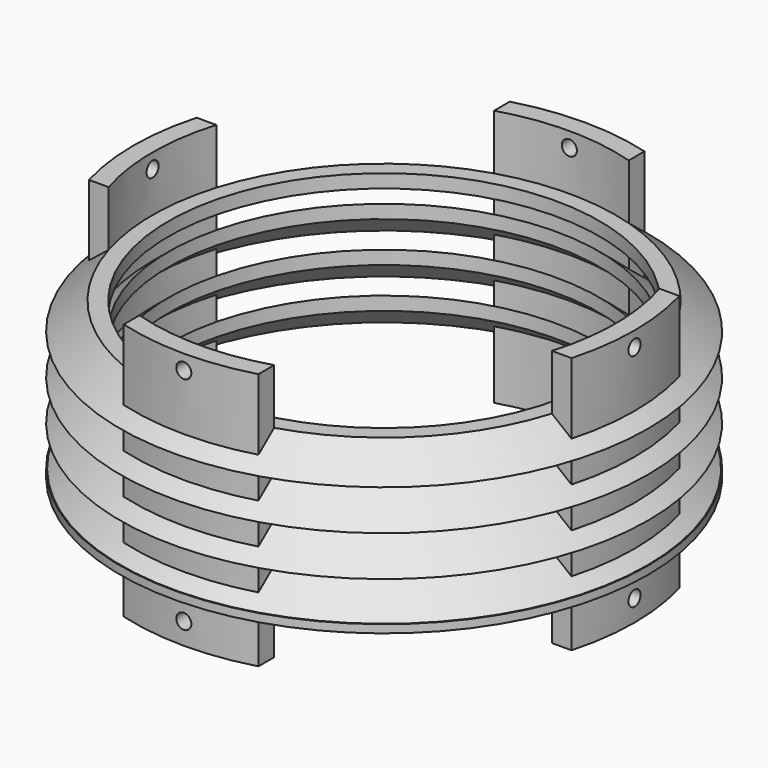
from build123d import *

# Parameters (mm, degrees)
CYLINDER126_R               = 2.8
CYLINDER126_DEPTH           = 300
CYLINDER126_ROLL_ANGLE      = 90
CYLINDER126_PLACEMENT_ANGLE = 45
CYLINDER125_R               = 2.8
CYLINDER125_DEPTH           = 300
CYLINDER125_ROLL_ANGLE      = 90
CYLINDER125_PLACEMENT_ANGLE = -45
CYLINDER123_R               = 2.8
CYLINDER123_DEPTH           = 300
CYLINDER124_R               = 2.8
CYLINDER124_DEPTH           = 300
CYLINDER112_R               = 2.8
CYLINDER112_DEPTH           = 300
CYLINDER113_R               = 2.8
CYLINDER113_DEPTH           = 300
CYLINDER120_R               = 80
CYLINDER120_DEPTH           = 100
EXTRUDE013_DEPTH            = 95.5
SKETCH014_R                 = 80
SKETCH013_R                 = 98
SKETCH012_R                 = 80
SKETCH011_R                 = 98
SKETCH018_R                 = 80
SKETCH017_R                 = 98
SKETCH016_R                 = 80
SKETCH015_R                 = 98
SKETCH022_R                 = 80
SKETCH021_R                 = 98
SKETCH020_R                 = 80
SKETCH019_R                 = 98
CYLINDER111_R               = 86
CYLINDER111_DEPTH           = 5
CYLINDER110_R               = 98
CYLINDER110_DEPTH           = 10
SKETCH026_R                 = 80
SKETCH025_R                 = 98
SKETCH024_R                 = 80
SKETCH023_R                 = 98
SKETCH053_R                 = 2.8
EXTRUDE035_DEPTH            = 20
CYLINDER155_R               = 2.13
CYLINDER155_DEPTH           = 300
CYLINDER156_R               = 2.13
CYLINDER156_DEPTH           = 300
TUBE010_R                   = 98
TUBE010_R_2                 = 94
TUBE010_DEPTH               = 65
SKETCH052_R                 = 98
SKETCH052_R_2               = 76
EXTRUDE034_DEPTH            = 5
FILLET007_R                 = 3
TUBE009_R                   = 98
TUBE009_R_2                 = 95
TUBE009_DEPTH               = 3


with BuildPart() as cylinder126:
    # Cylinder126 → Cylinder126 (new body)
    with BuildSketch(Plane.XY):
        Circle(CYLINDER126_R)
    extrude(amount=CYLINDER126_DEPTH)


with BuildPart() as cylinder126_1:
    # Cylinder126 roll: moved
    add(cylinder126.part.rotate(Axis((0, 0, 0), (1, 0, 0)), CYLINDER126_ROLL_ANGLE))


with BuildPart() as cylinder126_2:
    # Cylinder126 placement: moved
    add(cylinder126_1.part.moved(Location((-106.066017, -43.933983, 90))).rotate(Axis((-106.066017, -43.933983, 90), (0, 0, 1)), CYLINDER126_PLACEMENT_ANGLE))


with BuildPart() as m4cuts004:
    # Cylinder125 → Cylinder125 (new body)
    with BuildSketch(Plane.XY):
        Circle(CYLINDER125_R)
    extrude(amount=CYLINDER125_DEPTH)


with BuildPart() as m4cuts004_1:
    # Cylinder125 roll: moved
    add(m4cuts004.part.rotate(Axis((0, 0, 0), (1, 0, 0)), CYLINDER125_ROLL_ANGLE))


with BuildPart() as m4cuts004_2:
    # Cylinder125 placement: moved
    add(m4cuts004_1.part.moved(Location((106.066017, -43.933983, 90))).rotate(Axis((106.066017, -43.933983, 90), (0, 0, 1)), CYLINDER125_PLACEMENT_ANGLE))

    # Fusion072: union Cylinder126
    add(cylinder126_2.part)


with BuildPart() as m4cuts004_3:
    # Fusion072 placement: moved
    add(m4cuts004_2.part.moved(Location((0, 0, -82))))


with BuildPart() as cylinder123:
    # Cylinder123 → Cylinder123 (new body)
    with BuildSketch(Plane(origin=(0, 0, 90), x_dir=(1, 0, 0), z_dir=(0, -1, 0))):
        Circle(CYLINDER123_R)
    extrude(amount=CYLINDER123_DEPTH)


with BuildPart() as m4cuts005:
    # Cylinder124 → Cylinder124 (new body)
    with BuildSketch(Plane(origin=(-150, -150, 90), x_dir=(0, 1, 0), z_dir=(1, 0, 0))):
        Circle(CYLINDER124_R)
    extrude(amount=CYLINDER124_DEPTH)

    # Fusion071: union Cylinder123
    add(cylinder123.part)


with BuildPart() as m4cuts005_1:
    # Fusion071 placement: moved
    add(m4cuts005.part.moved(Location((0, 0, -82))))

    # Fusion073: union m4Cuts004
    add(m4cuts004_3.part)


with BuildPart() as cylinder112:
    # Cylinder112 → Cylinder112 (new body)
    with BuildSketch(Plane(origin=(0, 0, 90), x_dir=(1, 0, 0), z_dir=(0, -1, 0))):
        Circle(CYLINDER112_R)
    extrude(amount=CYLINDER112_DEPTH)


with BuildPart() as m4cuts001:
    # Cylinder113 → Cylinder113 (new body)
    with BuildSketch(Plane(origin=(-150, -150, 90), x_dir=(0, 1, 0), z_dir=(1, 0, 0))):
        Circle(CYLINDER113_R)
    extrude(amount=CYLINDER113_DEPTH)

    # Fusion062: union Cylinder112
    add(cylinder112.part)


with BuildPart() as obj1:
    # Cylinder120 → Cylinder120 (new body)
    with BuildSketch(Plane(origin=(0, -150, 0), x_dir=(1, 0, 0), z_dir=(0, 0, 1))):
        Circle(CYLINDER120_R)
    extrude(amount=CYLINDER120_DEPTH)

    # Fusion066: union m4Cuts001
    add(m4cuts001.part)


with BuildPart() as obj2:
    # Sketch031 → Extrude013 (new body)
    with BuildSketch(Plane.XY):
        with BuildLine():
            ThreePointArc((-89.576783, -125), (-93, -150), (-89.576783, -175))
            Line((-89.576783, -175), (-82.286086, -175))
            ThreePointArc((-82.286086, -125), (-86, -150), (-82.286086, -175))
            Line((-89.576783, -125), (-82.286086, -125))
        make_face()
        with BuildLine():
            ThreePointArc((25, -60.423217), (0, -57), (-25, -60.423217))
            Line((-25, -60.423217), (-25, -67.713914))
            ThreePointArc((25, -67.713914), (0, -64), (-25, -67.713914))
            Line((25, -60.423217), (25, -67.713914))
        make_face()
        with BuildLine():
            ThreePointArc((89.576783, -175), (93, -150), (89.576783, -125))
            Line((89.576783, -125), (82.286086, -125))
            ThreePointArc((82.286086, -175), (86, -150), (82.286086, -125))
            Line((89.576783, -175), (82.286086, -175))
        make_face()
        with BuildLine():
            ThreePointArc((-25, -239.576783), (0, -243), (25, -239.576783))
            Line((25, -239.576783), (25, -232.286086))
            ThreePointArc((-25, -232.286086), (0, -236), (25, -232.286086))
            Line((-25, -239.576783), (-25, -232.286086))
        make_face()
    extrude(amount=EXTRUDE013_DEPTH)


with BuildPart() as loft002:
    # Sketch014 → Loft002 section 0
    with BuildSketch(Plane.XY.offset(80)):
        with Locations((0, -150)):
            Circle(SKETCH014_R)
    # Sketch013 → Loft002 section 1
    with BuildSketch(Plane.XY.offset(65)):
        with Locations((0, -150)):
            Circle(SKETCH013_R)
    loft()


with BuildPart() as loft002_1:
    # Loft002 placement: moved
    add(loft002.part.moved(Location((0, 0, -20))))


with BuildPart() as loft003:
    # Sketch012 → Loft001 section 0
    with BuildSketch(Plane.XY.offset(80)):
        with Locations((0, -150)):
            Circle(SKETCH012_R)
    # Sketch011 → Loft001 section 1
    with BuildSketch(Plane.XY.offset(65)):
        with Locations((0, -150)):
            Circle(SKETCH011_R)
    loft()


with BuildPart() as loft003_1:
    # Loft001 placement: moved
    add(loft003.part.moved(Location((0, 0, -15))))

    # Cut022: cut Loft002
    add(loft002_1.part, mode=Mode.SUBTRACT)


with BuildPart() as loft006:
    # Sketch018 → Loft004 section 0
    with BuildSketch(Plane.XY.offset(80)):
        with Locations((0, -150)):
            Circle(SKETCH018_R)
    # Sketch017 → Loft004 section 1
    with BuildSketch(Plane.XY.offset(65)):
        with Locations((0, -150)):
            Circle(SKETCH017_R)
    loft()


with BuildPart() as loft006_1:
    # Loft004 placement: moved
    add(loft006.part.moved(Location((0, 0, -20))))


with BuildPart() as loft004:
    # Sketch016 → Loft003 section 0
    with BuildSketch(Plane.XY.offset(80)):
        with Locations((0, -150)):
            Circle(SKETCH016_R)
    # Sketch015 → Loft003 section 1
    with BuildSketch(Plane.XY.offset(65)):
        with Locations((0, -150)):
            Circle(SKETCH015_R)
    loft()


with BuildPart() as loft004_1:
    # Loft003 placement: moved
    add(loft004.part.moved(Location((0, 0, -15))))

    # Cut023: cut Loft006
    add(loft006_1.part, mode=Mode.SUBTRACT)


with BuildPart() as loft004_2:
    # Cut023 placement: moved
    add(loft004_1.part.moved(Location((0, 0, -15))))


with BuildPart() as loft009:
    # Sketch022 → Loft006 section 0
    with BuildSketch(Plane.XY.offset(80)):
        with Locations((0, -150)):
            Circle(SKETCH022_R)
    # Sketch021 → Loft006 section 1
    with BuildSketch(Plane.XY.offset(65)):
        with Locations((0, -150)):
            Circle(SKETCH021_R)
    loft()


with BuildPart() as loft009_1:
    # Loft006 placement: moved
    add(loft009.part.moved(Location((0, 0, -20))))


with BuildPart() as loft007:
    # Sketch020 → Loft005 section 0
    with BuildSketch(Plane.XY.offset(80)):
        with Locations((0, -150)):
            Circle(SKETCH020_R)
    # Sketch019 → Loft005 section 1
    with BuildSketch(Plane.XY.offset(65)):
        with Locations((0, -150)):
            Circle(SKETCH019_R)
    loft()


with BuildPart() as loft007_1:
    # Loft005 placement: moved
    add(loft007.part.moved(Location((0, 0, -15))))

    # Cut024: cut Loft009
    add(loft009_1.part, mode=Mode.SUBTRACT)


with BuildPart() as loft007_2:
    # Cut024 placement: moved
    add(loft007_1.part.moved(Location((0, 0, -30))))


with BuildPart() as cylinder111:
    # Cylinder111 → Cylinder111 (new body)
    with BuildSketch(Plane(origin=(0, -150, 70), x_dir=(1, 0, 0), z_dir=(0, 0, 1))):
        Circle(CYLINDER111_R)
    extrude(amount=CYLINDER111_DEPTH)


with BuildPart() as cylinder110:
    # Cylinder110 → Cylinder110 (new body)
    with BuildSketch(Plane(origin=(0, -150, 75), x_dir=(1, 0, 0), z_dir=(0, 0, 1))):
        Circle(CYLINDER110_R)
    extrude(amount=CYLINDER110_DEPTH)


with BuildPart() as loft012:
    # Sketch026 → Loft008 section 0
    with BuildSketch(Plane.XY.offset(80)):
        with Locations((0, -150)):
            Circle(SKETCH026_R)
    # Sketch025 → Loft008 section 1
    with BuildSketch(Plane.XY.offset(65)):
        with Locations((0, -150)):
            Circle(SKETCH025_R)
    loft()


with BuildPart() as loft012_1:
    # Loft008 placement: moved
    add(loft012.part.moved(Location((0, 0, -20))))


with BuildPart() as obj3:
    # Sketch024 → Loft007 section 0
    with BuildSketch(Plane.XY.offset(80)):
        with Locations((0, -150)):
            Circle(SKETCH024_R)
    # Sketch023 → Loft007 section 1
    with BuildSketch(Plane.XY.offset(65)):
        with Locations((0, -150)):
            Circle(SKETCH023_R)
    loft()


with BuildPart() as obj3_1:
    # Loft007 placement: moved
    add(obj3.part.moved(Location((0, 0, -15))))

    # Cut025: cut Loft012
    add(loft012_1.part, mode=Mode.SUBTRACT)


with BuildPart() as obj3_2:
    # Cut025 placement: moved
    add(obj3_1.part.moved(Location((0, 0, 15))))

    # Cut026: cut Cylinder110
    add(cylinder110.part, mode=Mode.SUBTRACT)

    # Fusion058: union Cylinder111
    add(cylinder111.part)

    # Fusion059: union Loft003, Loft004, Loft007
    add(loft003_1.part)
    add(loft004_2.part)
    add(loft007_2.part)

    # Fusion065: union obj2
    add(obj2.part)

    # Cut031: cut obj1
    add(obj1.part, mode=Mode.SUBTRACT)

    # Cut033: cut m4Cuts005
    add(m4cuts005_1.part, mode=Mode.SUBTRACT)


with BuildPart() as m4heatsetvercuts006:
    # Sketch053 → Extrude035 (new body)
    with BuildSketch(Plane.XY):
        with Locations((0, -68)):
            Circle(SKETCH053_R)
        with Locations((82, -150)):
            Circle(SKETCH053_R)
        with Locations((0, -232)):
            Circle(SKETCH053_R)
        with Locations((-82, -150)):
            Circle(SKETCH053_R)
    extrude(amount=EXTRUDE035_DEPTH)


with BuildPart() as m4heatsetvercuts006_1:
    # Extrude035 placement: moved
    add(m4heatsetvercuts006.part.moved(Location((0, 0, -193))))


with BuildPart() as cylinder155:
    # Cylinder155 → Cylinder155 (new body)
    with BuildSketch(Plane(origin=(0, 0, 90), x_dir=(1, 0, 0), z_dir=(0, -1, 0))):
        Circle(CYLINDER155_R)
    extrude(amount=CYLINDER155_DEPTH)


with BuildPart() as m4cuts017:
    # Cylinder156 → Cylinder156 (new body)
    with BuildSketch(Plane(origin=(-150, -150, 90), x_dir=(0, 1, 0), z_dir=(1, 0, 0))):
        Circle(CYLINDER156_R)
    extrude(amount=CYLINDER156_DEPTH)

    # Fusion102: union Cylinder155
    add(cylinder155.part)


with BuildPart() as m4cuts017_1:
    # Fusion102 placement: moved
    add(m4cuts017.part.moved(Location((0, 0, -321))))


with BuildPart() as tube010:
    # Tube010 → Tube010 (new body)
    with BuildSketch(Plane(origin=(0, -150, -125), x_dir=(1, 0, 0), z_dir=(0, 0, 1))):
        Circle(TUBE010_R)
        Circle(TUBE010_R_2, mode=Mode.SUBTRACT)
    extrude(amount=TUBE010_DEPTH)


with BuildPart() as level5s004:
    # Sketch052 → Extrude034 (new body)
    with BuildSketch(Plane.XY):
        with Locations((0, -150)):
            Circle(SKETCH052_R)
        with Locations((0, -150)):
            Circle(SKETCH052_R_2, mode=Mode.SUBTRACT)
    extrude(amount=EXTRUDE034_DEPTH)


with BuildPart() as level5s004_1:
    # Extrude034 placement: moved
    add(level5s004.part.moved(Location((0, 0, -65))))

    # Fusion101: union Tube010
    add(tube010.part)


with BuildPart() as level5s004_2:
    # Fusion101 placement: moved
    add(level5s004_1.part.moved(Location((0, 0, -125))))

    # Cut053: cut m4Cuts017
    add(m4cuts017_1.part, mode=Mode.SUBTRACT)

    # Cut054: cut m4HeatSetVerCuts006
    add(m4heatsetvercuts006_1.part, mode=Mode.SUBTRACT)

    # Fillet007
    fillet007_edges = [level5s004_2.edges().sort_by_distance(p)[0] for p in [
        (-98, -150, -185),
        (-98, -150, -250),
        (-94, -150, -190),
    ]]
    fillet(fillet007_edges, radius=FILLET007_R)


with BuildPart() as obj4:
    # Tube009 → Tube009 (new body)
    with BuildSketch(Plane(origin=(0, -150, -188), x_dir=(1, 0, 0), z_dir=(0, 0, 1))):
        Circle(TUBE009_R)
        Circle(TUBE009_R_2, mode=Mode.SUBTRACT)
    extrude(amount=TUBE009_DEPTH)

    # Cut055: cut level5s004
    add(level5s004_2.part, mode=Mode.SUBTRACT)


with BuildPart() as obj4_1:
    # Cut055 placement: moved
    add(obj4.part.moved(Location((0, 0, 205.25))))

    # Fusion103: union obj3
    add(obj3_2.part)


solid = obj4_1.part
